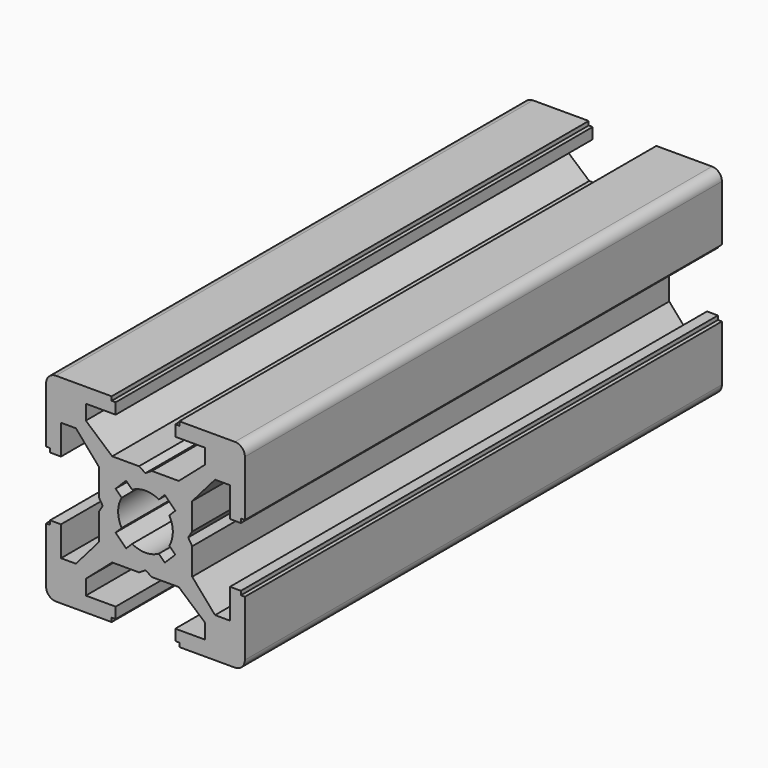
from build123d import *

# Parameters (mm, degrees)
PAD_DEPTH          = 60
POCKET_DEPTH       = 380
POLARPATTERN_COUNT = 4
POCKET001_DEPTH    = 380


with BuildPart() as part:
    # Sketch → Pad (new body)
    with BuildSketch(Plane.XZ):
        with BuildLine():
            Line((-9, 10), (9, 10))
            ThreePointArc((10, 9), (9.707107, 9.707107), (9, 10))
            Line((10, 9), (10, -9))
            ThreePointArc((9, -10), (9.707107, -9.707107), (10, -9))
            Line((9, -10), (-9, -10))
            ThreePointArc((-10, -9), (-9.707107, -9.707107), (-9, -10))
            Line((-10, -9), (-10, 9))
            ThreePointArc((-9, 10), (-9.707107, 9.707107), (-10, 9))
        make_face()
    extrude(amount=PAD_DEPTH)

    # Sketch001 (on Face10 of Pad) → Pocket (cut)
    with BuildSketch(Plane.XZ.offset(60)):
        Polygon((-3.4, 10), (-3.4, 9.6), (-3, 9.6), (-3, 8.5), (-6, 8.5), (-6, 7), (-3.35, 4.7), (-0.65, 4.7), (0, 4.3), (0.65, 4.7), (3.35, 4.7), (6, 7), (6, 8.5), (3, 8.5), (3, 9.6), (3.4, 9.6), (3.4, 10), align=None)
    pocket = extrude(amount=-POCKET_DEPTH, mode=Mode.SUBTRACT)

    # PolarPattern: Pocket ×4 about axis
    polarpattern_axis = Axis((0, -60, 0), (0, -1, 0))
    for i in range(1, POLARPATTERN_COUNT):
        add(pocket.rotate(polarpattern_axis, i * 360 / POLARPATTERN_COUNT), mode=Mode.SUBTRACT)

    # Sketch002 (on Face4 of PolarPattern) → Pocket001 (cut)
    with BuildSketch(Plane.XZ.offset(60)):
        with BuildLine():
            ThreePointArc((1.340499, 2.401159), (0, 2.75), (-1.340499, 2.401159))
            Line((-1.944544, 3.005204), (-1.340499, 2.401159))
            Line((-3.005204, 1.944544), (-1.944544, 3.005204))
            Line((-2.401159, 1.340499), (-3.005204, 1.944544))
            ThreePointArc((-2.401159, 1.340499), (-2.75, 0), (-2.401159, -1.340499))
            Line((-3.005204, -1.944544), (-2.401159, -1.340499))
            Line((-1.944544, -3.005204), (-3.005204, -1.944544))
            Line((-1.340499, -2.401159), (-1.944544, -3.005204))
            ThreePointArc((-1.340499, -2.401159), (0, -2.75), (1.340499, -2.401159))
            Line((1.944544, -3.005204), (1.340499, -2.401159))
            Line((3.005204, -1.944544), (1.944544, -3.005204))
            Line((2.401159, -1.340499), (3.005204, -1.944544))
            ThreePointArc((2.401159, -1.340499), (2.75, 0), (2.401159, 1.340499))
            Line((2.401159, 1.340499), (3.005204, 1.944544))
            Line((3.005204, 1.944544), (1.944544, 3.005204))
            Line((1.944544, 3.005204), (1.340499, 2.401159))
        make_face()
    extrude(amount=-POCKET001_DEPTH, mode=Mode.SUBTRACT)


solid = part.part
